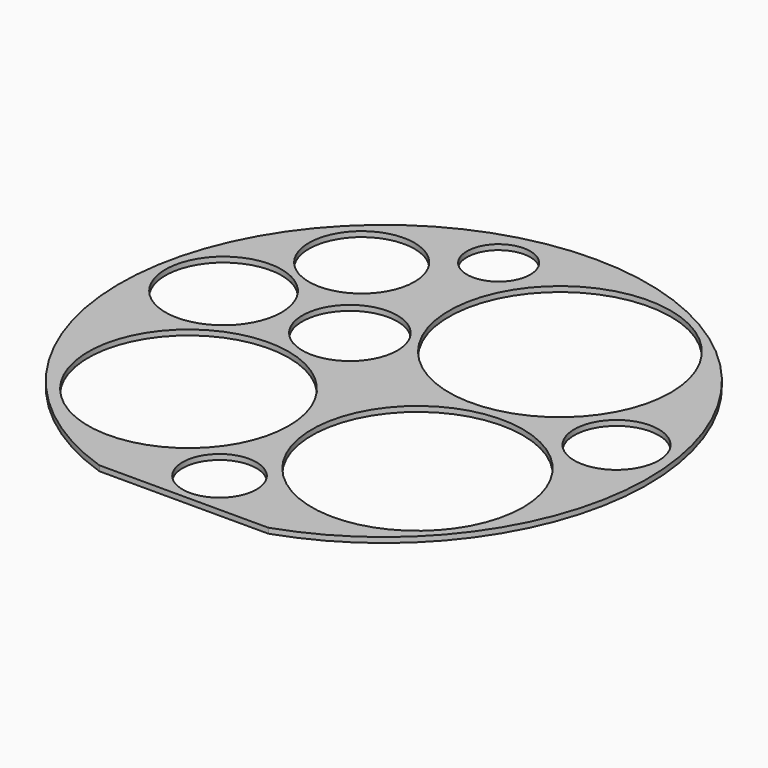
from build123d import *

# Parameters (mm, degrees)
F0_R     = 7
F0_R_2   = 19
F0_R_3   = 20
F0_R_4   = 11
F0_R_5   = 9
F0_R_6   = 10
F0_R_7   = 6
F0_R_8   = 21
F0_R_9   = 8
F1_DEPTH = 1


with BuildPart() as f1:
    # F0 (on Top) → F1 (new body)
    with BuildSketch(Plane.XY):
        with BuildLine():
            Line((-16, -47.370877), (16, -47.370877))
            ThreePointArc((16, -47.370877), (0, 50), (-16, -47.370877))
        make_face()
        with Locations((0, -38.908474)):
            Circle(F0_R, mode=Mode.SUBTRACT)
        with Locations((-21, -20)):
            Circle(F0_R_2, mode=Mode.SUBTRACT)
        with Locations((21.367002, -18.754443)):
            Circle(F0_R_3, mode=Mode.SUBTRACT)
        with Locations((-36.534887, 7.709436)):
            Circle(F0_R_4, mode=Mode.SUBTRACT)
        with Locations((-13.529324, 8.86404)):
            Circle(F0_R_5, mode=Mode.SUBTRACT)
        with Locations((-26.296638, 27.617138)):
            Circle(F0_R_6, mode=Mode.SUBTRACT)
        with Locations((-10.370478, 40.130548)):
            Circle(F0_R_7, mode=Mode.SUBTRACT)
        with Locations((14.462381, 23.606339)):
            Circle(F0_R_8, mode=Mode.SUBTRACT)
        with Locations((39.654918, 5.505036)):
            Circle(F0_R_9, mode=Mode.SUBTRACT)
    extrude(amount=F1_DEPTH)


solid = f1.part
